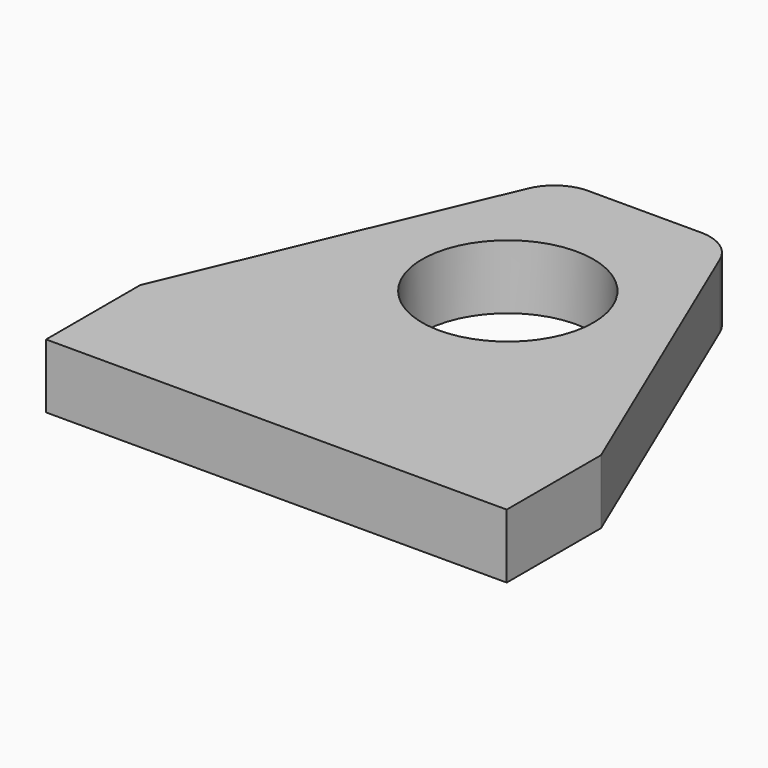
from build123d import *

# Parameters (mm, degrees)
F0_R     = 25.4
F1_DEPTH = 19.05


with BuildPart() as f1:
    # F0 (on Top) → F1 (new body)
    with BuildSketch(Plane.XY):
        with BuildLine():
            Line((-68.2625, 34.925), (-68.2625, 0))
            Line((-68.2625, 0), (68.2625, 0))
            Line((68.2625, 0), (68.2625, 34.925))
            Line((68.2625, 34.925), (28.420324, 128.787285))
            ThreePointArc((28.420324, 128.787285), (23.739512, 134.41535), (16.729912, 136.525))
            Line((16.729912, 136.525), (-16.729912, 136.525))
            ThreePointArc((-16.729912, 136.525), (-23.739512, 134.41535), (-28.420324, 128.787285))
            Line((-28.420324, 128.787285), (-68.2625, 34.925))
        make_face()
        with Locations((0, 85.725)):
            Circle(F0_R, mode=Mode.SUBTRACT)
    extrude(amount=F1_DEPTH)


solid = f1.part
